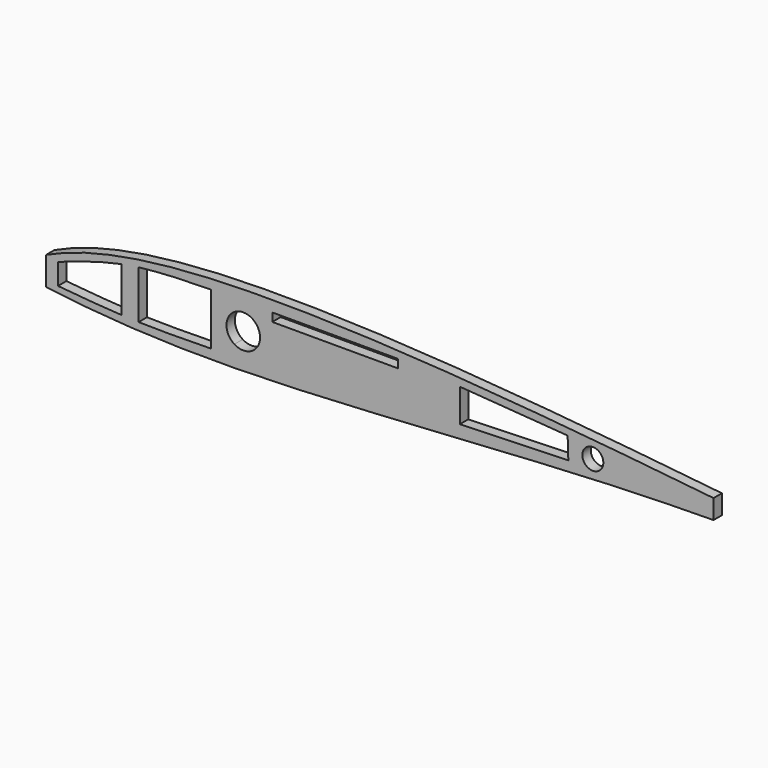
from build123d import *

# Parameters (mm, degrees)
F2_DEPTH = 2.5
F1_R     = 2.5
F3_DEPTH = 2.5
F5_DEPTH = 2.5
F4_W     = 30
F4_H     = 2
F6_DEPTH = 2.5
F7_DEPTH = 2.5


with BuildPart() as f2:
    # F0 (on Front) → F2 (new body)
    with BuildSketch(Plane.XZ):
        with BuildLine():
            add(Edge.make_bspline(
                [(-96.9805282175, -0.8100506688), (-84.7869920978, 5.1468541776), (-38.6381415733, 10.9636146396), (42.6881882799, 2.4723259958), (100, -4.047003109)],
                knots=[0, 0, 0, 0, 0.374886421, 1, 1, 1, 1], degree=3))
            add(Edge.make_bspline(
                [(-97.5447368223, -7.1186651935), (-99.939251346, -6.5508492693), (-102.885147974, -5.168950634), (-100.0067471137, -2.3789404522), (-96.9805282175, -0.8100506688)],
                knots=[0.0564585679, 0.0564585679, 0.0564585679, 0.0564585679, 0.4847104148, 1, 1, 1, 1], degree=3))
            add(Edge.make_bspline(
                [(-96.5428845142, -7.3406707446), (-96.8949965543, -7.2673488468), (-97.22905608, -7.1935231869), (-97.5447368223, -7.1186651935)],
                knots=[0, 0, 0, 0, 0.0564585679, 0.0564585679, 0.0564585679, 0.0564585679], degree=3))
            add(Edge.make_bspline(
                [(-96.5428845142, -7.3406707446), (-80.7020161693, -9.4302402111), (-44.2471235075, -11.1181020976), (41.8622965332, -3.5518856086), (82.0915186506, -4.6802794425), (100, -4.047003109)],
                knots=[0, 0, 0, 0, 0.2987594418, 0.6837410955, 1, 1, 1, 1], degree=3))
        make_face()
        with BuildLine():
            add(Edge.make_bspline(
                [(-99.8196757147, -4.047003109), (-99.3821638101, -3.2227137691), (-97.9006497107, -2.3042858417), (-96.3385477662, -1.6362179573)],
                knots=[0.5425000514, 0.5425000514, 0.5425000514, 0.5425000514, 1, 1, 1, 1], degree=3))
            add(Edge.make_bspline(
                [(-96.3385477662, -1.6362179573), (-85.7442874691, 3.2900694446), (-38.7960585931, 10.0747672146), (36.943279708, 1.696590452), (86.094097513, -3.3751911245)],
                knots=[0, 0, 0, 0, 0.384923117, 1, 1, 1, 1], degree=3))
            add(Edge.make_bspline(
                [(-97.3825784566, -6.0471531808), (-82.3468325761, -8.841713568), (-44.2551066449, -8.6286827794), (40.9195716837, -3.3120714751), (72.7341022162, -3.1550192186), (86.094097513, -3.3751911245)],
                knots=[0, 0, 0, 0, 0.3131273629, 0.7122131732, 1, 1, 1, 1], degree=3))
            add(Edge.make_bspline(
                [(-97.3825784566, -6.0471531808), (-98.6588937786, -5.8946130057), (-100.1661659123, -5.1778479876), (-99.9138553768, -4.2244412327), (-99.8196757147, -4.047003109)],
                knots=[0, 0, 0, 0, 0.4440177242, 0.5425000514, 0.5425000514, 0.5425000514, 0.5425000514], degree=3))
        make_face(mode=Mode.SUBTRACT)
        with BuildLine():
            add(Edge.make_bspline(
                [(-96.3385477662, -1.6362179573), (-85.7442874691, 3.2900694446), (-38.7960585931, 10.0747672146), (36.943279708, 1.696590452), (86.094097513, -3.3751911245)],
                knots=[0, 0, 0, 0, 0.384923117, 1, 1, 1, 1], degree=3))
            add(Edge.make_bspline(
                [(-99.8196757147, -4.047003109), (-99.3821638101, -3.2227137691), (-97.9006497107, -2.3042858417), (-96.3385477662, -1.6362179573)],
                knots=[0.5425000514, 0.5425000514, 0.5425000514, 0.5425000514, 1, 1, 1, 1], degree=3))
            add(Edge.make_bspline(
                [(-97.3825784566, -6.0471531808), (-98.6588937786, -5.8946130057), (-100.1661659123, -5.1778479876), (-99.9138553768, -4.2244412327), (-99.8196757147, -4.047003109)],
                knots=[0, 0, 0, 0, 0.4440177242, 0.5425000514, 0.5425000514, 0.5425000514, 0.5425000514], degree=3))
            add(Edge.make_bspline(
                [(-97.3825784566, -6.0471531808), (-82.3468325761, -8.841713568), (-44.2551066449, -8.6286827794), (40.9195716837, -3.3120714751), (72.7341022162, -3.1550192186), (86.094097513, -3.3751911245)],
                knots=[0, 0, 0, 0, 0.3131273629, 0.7122131732, 1, 1, 1, 1], degree=3))
        make_face()
        with BuildLine():
            add(Edge.make_bspline(
                [(-96.5428845142, -7.3406707446), (-96.8949965543, -7.2673488468), (-97.22905608, -7.1935231869), (-97.5447368223, -7.1186651935)],
                knots=[0, 0, 0, 0, 0.0564585679, 0.0564585679, 0.0564585679, 0.0564585679], degree=3))
            ThreePointArc((-97.5447368223, -7.1186651935), (-97.052492706, -7.2688477084), (-96.5428845142, -7.3406707446))
        make_face()
    extrude(amount=F2_DEPTH)


with BuildPart() as f2b:
    # F1 (on Front) → F2, piece 2 (new body)
    with BuildSketch(Plane.XZ):
        with Locations((33.7789729238, -1.0305350879)):
            Circle(F1_R)
    extrude(amount=F2_DEPTH)


with BuildPart() as f2c:
    # F1 (on Front) → F2, piece 3 (new body)
    with BuildSketch(Plane.XZ):
        with BuildLine():
            ThreePointArc((-45.542362095, -1.3708024857), (-51.4789804014, 2.1291274472), (-51.6671168627, -4.7598166753))
            Line((-51.6671168627, -4.7598166753), (-47.385046135, -4.7391830831))
            ThreePointArc((-47.385046135, -4.7391830831), (-46.0331411102, -3.2905337378), (-45.542362095, -1.3708024857))
        make_face()
        with BuildLine():
            Line((-47.385046135, -4.7391830831), (-51.6671168627, -4.7598166753))
            ThreePointArc((-51.6671168627, -4.7598166753), (-49.523087913, -5.3707560487), (-47.385046135, -4.7391830831))
        make_face()
    extrude(amount=F2_DEPTH)


with BuildPart() as f3_tool:
    # F1 (on Front) → F3 (new body)
    with BuildSketch(Plane.XZ):
        with BuildLine():
            ThreePointArc((-45.542362095, -1.3708024857), (-51.4789804014, 2.1291274472), (-51.6671168627, -4.7598166753))
            Line((-51.6671168627, -4.7598166753), (-47.385046135, -4.7391830831))
            ThreePointArc((-47.385046135, -4.7391830831), (-46.0331411102, -3.2905337378), (-45.542362095, -1.3708024857))
        make_face()
        with BuildLine():
            Line((-47.385046135, -4.7391830831), (-51.6671168627, -4.7598166753))
            ThreePointArc((-51.6671168627, -4.7598166753), (-49.523087913, -5.3707560487), (-47.385046135, -4.7391830831))
        make_face()
        with Locations((33.7789729238, -1.0305350879)):
            Circle(F1_R)
    extrude(amount=F3_DEPTH)


with BuildPart() as f2_1:
    add(f2.part)

    # F3: cut by f3_tool
    add(f3_tool.part, mode=Mode.SUBTRACT)

    # F4 (on face) → F5 (cut)
    with BuildSketch(Plane.XZ.offset(2.5)):
        with BuildLine():
            Line((-96.5428845142, -7.3406707446), (-96.5428845142, -0.5989118026))
            add(Edge.make_bspline(
                [(-96.9805282175, -0.8100506688), (-96.8353706427, -0.7391368787), (-96.6894893165, -0.6687582494), (-96.5428845142, -0.5989118026)],
                knots=[0, 0, 0, 0, 0.0044628238, 0.0044628238, 0.0044628238, 0.0044628238], degree=3))
            add(Edge.make_bspline(
                [(-96.9805282175, -0.8100506688), (-100.0067471137, -2.3789404522), (-102.885147974, -5.168950634), (-99.939251346, -6.5508492693), (-97.5447368223, -7.1186651935)],
                knots=[0.0564585679, 0.0564585679, 0.0564585679, 0.0564585679, 0.5717481532, 1, 1, 1, 1], degree=3))
            ThreePointArc((-97.5447368223, -7.1186651935), (-97.052492706, -7.2688477084), (-96.5428845142, -7.3406707446))
        make_face()
    extrude(amount=-F5_DEPTH, mode=Mode.SUBTRACT)

    # F4 (on face) → F6 (cut)
    with BuildSketch(Plane.XZ.offset(2.5)):
        with BuildLine():
            Line((-78.6215588156, -7.3670944992), (-78.6215588156, 3.2958948603))
            add(Edge.make_bspline(
                [(-78.6215588156, 3.2958948603), (-83.9345486349, 2.2532028855), (-88.8194569144, 0.5548157735), (-93.7043651938, -1.1435713386)],
                knots=[0.554896308, 0.554896308, 0.554896308, 0.554896308, 1, 1, 1, 1], degree=3))
            Line((-93.7043651938, -1.1435713386), (-93.7043651938, -6.1954581179))
            add(Edge.make_bspline(
                [(-78.6215588156, -7.3670944992), (-83.7013643272, -7.1077100258), (-88.7028647605, -6.6515840718), (-93.7043651938, -6.1954581179)],
                knots=[0.5793594661, 0.5793594661, 0.5793594661, 0.5793594661, 1, 1, 1, 1], degree=3))
        make_face()
        with BuildLine():
            Line((-57.251535356, -7.4831936508), (-57.251535356, 4.8988820054))
            add(Edge.make_bspline(
                [(-57.251535356, 4.8988820054), (-63.1249518816, 4.7812850577), (-68.9983684072, 4.66368811), (-74.4892291338, 3.9601280834)],
                knots=[0, 0, 0, 0, 0.4418705618, 0.4418705618, 0.4418705618, 0.4418705618], degree=3))
            Line((-74.4892291338, 3.9601280834), (-74.4892291338, -7.5306241193))
            add(Edge.make_bspline(
                [(-57.251535356, -7.4831936508), (-63.0319736557, -7.5857864832), (-68.8124119553, -7.6883793156), (-74.4892291338, -7.5306241193)],
                knots=[0, 0, 0, 0, 0.4658094847, 0.4658094847, 0.4658094847, 0.4658094847], degree=3))
        make_face()
        with Locations((-27.6331795752, 3.8601249214)):
            Rectangle(F4_W, F4_H)
        Polygon((27.7735989974, 1.9125135442), (2.0833725575, 3.8092588075), (2.0833725575, -4.047003109), (27.937149629, -3.2237600535), align=None)
    extrude(amount=-F6_DEPTH, mode=Mode.SUBTRACT)

    # F4 (on face) → F7 (cut)
    with BuildSketch(Plane.XZ.offset(2.5)):
        with BuildLine():
            add(Edge.make_bspline(
                [(62.5460875734, 0.1020588345), (74.6514883615, -1.1873862537), (87.1633646635, -2.586811085), (100, -4.047003109)],
                knots=[0.8599877614, 0.8599877614, 0.8599877614, 0.8599877614, 1, 1, 1, 1], degree=3))
            Line((62.5460875734, 0.1020588345), (62.5460875734, -4.518638291))
            add(Edge.make_bspline(
                [(62.5460875734, -4.518638291), (75.9097127299, -4.3829595873), (88.0075171585, -4.4710790211), (100, -4.047003109)],
                knots=[0.7882160183, 0.7882160183, 0.7882160183, 0.7882160183, 1, 1, 1, 1], degree=3))
        make_face()
    extrude(amount=-F7_DEPTH, mode=Mode.SUBTRACT)


with BuildPart() as f2b_1:
    add(f2b.part)

    # F3: cut by f3_tool
    add(f3_tool.part, mode=Mode.SUBTRACT)


with BuildPart() as f2c_1:
    add(f2c.part)

    # F3: cut by f3_tool
    add(f3_tool.part, mode=Mode.SUBTRACT)


solid = f2_1.part
